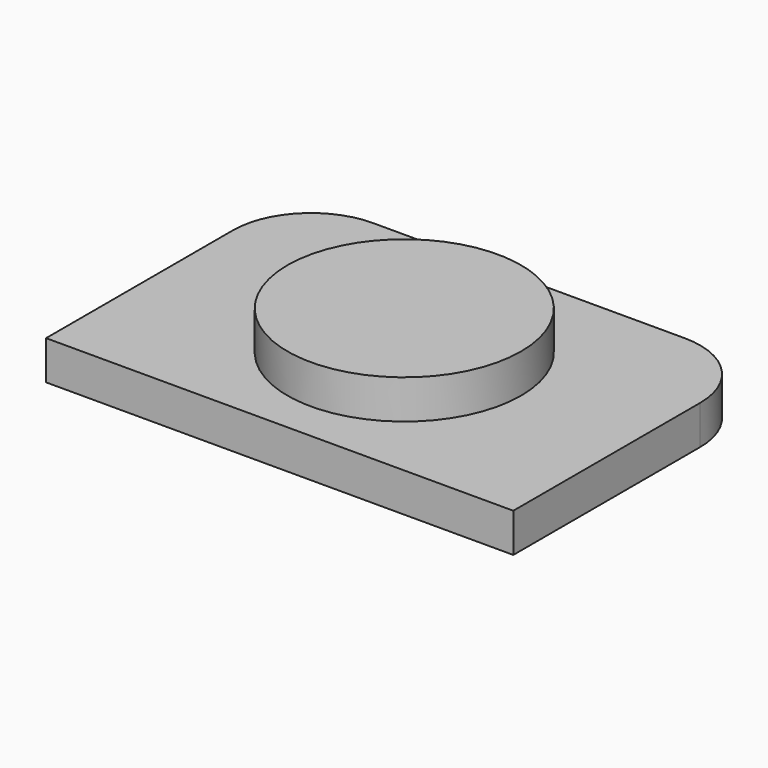
from build123d import *

# Parameters (mm, degrees)
F1_DEPTH = 0.635
F2_R     = 1.905
F3_DEPTH = 0.635


with BuildPart() as f1:
    # F0 (on Top) → F1 (new body)
    with BuildSketch(Plane.XY):
        with BuildLine():
            Line((-3.81, -2.54), (3.81, -2.54))
            Line((3.81, -2.54), (3.81, 1.27))
            ThreePointArc((3.81, 1.27), (3.438026, 2.168026), (2.54, 2.54))
            Line((2.54, 2.54), (-2.54, 2.54))
            ThreePointArc((-2.54, 2.54), (-3.438026, 2.168026), (-3.81, 1.27))
            Line((-3.81, 1.27), (-3.81, -2.54))
        make_face()
    extrude(amount=F1_DEPTH)

    # F2 (on face) → F3 (join)
    with BuildSketch(Plane.XY.offset(0.635)):
        Circle(F2_R)
    extrude(amount=F3_DEPTH)


solid = f1.part
